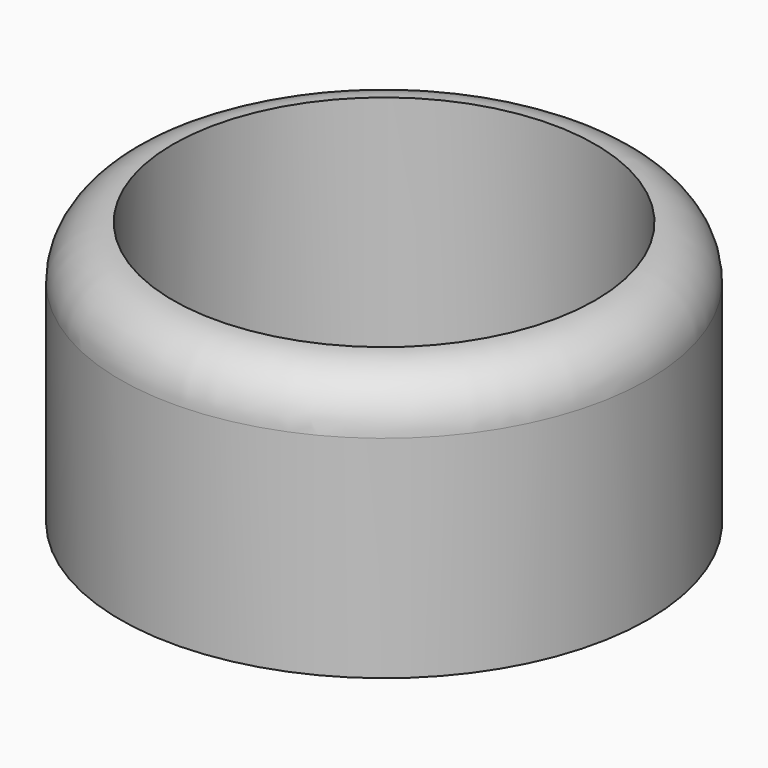
from build123d import *

# Parameters (mm, degrees)
F0_R      = 25
F1_DEPTH  = 25
F2_R      = 5
F1_FACE_R = 20
F3_DEPTH  = 20
F4_R      = 20
F5_DEPTH  = 22.5


with BuildPart() as f1:
    # F0 (on Top) → F1 (new body)
    with BuildSketch(Plane.XY):
        Circle(F0_R)
    extrude(amount=F1_DEPTH)

    # F2
    f2_edges = [f1.edges().sort_by_distance(p)[0] for p in [
        (-25, 0, 25),
    ]]
    fillet(f2_edges, radius=F2_R)

    # F1_face (on face) → F3 (join)
    with BuildSketch(Plane.XY.offset(25)):
        Circle(F1_FACE_R)
    extrude(amount=-F3_DEPTH)

    # F4 (on face) → F5 (cut)
    with BuildSketch(Plane.XY.offset(25)):
        Circle(F4_R)
        Circle(F4_R)
    extrude(amount=-F5_DEPTH, mode=Mode.SUBTRACT)


solid = f1.part
